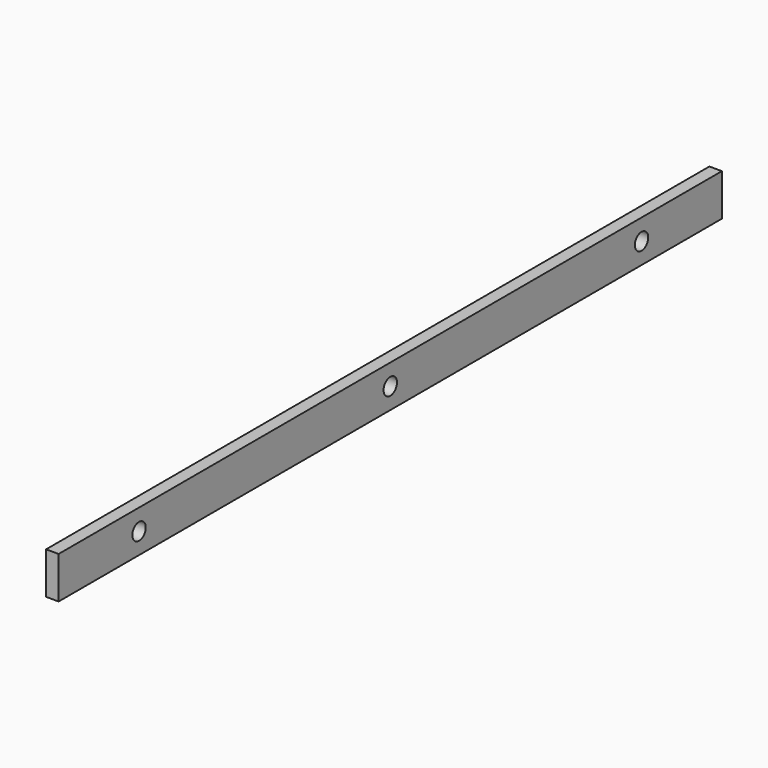
from build123d import *

# Parameters (mm, degrees)
F0_W     = 19.05
F0_H     = 63.5
F1_DEPTH = 1257.3
F2_R     = 12.7
F3_DEPTH = 19.051


with BuildPart() as f1:
    # F0 (on Front) → F1 (new body)
    with BuildSketch(Plane.XZ):
        with Locations((9.525, -31.75)):
            Rectangle(F0_W, F0_H)
    extrude(amount=F1_DEPTH)

    # F2 (on face) → F3 (cut, through all)
    with BuildSketch(Plane.YZ.offset(19.05)):
        with Locations((-1104.9, -31.75)):
            Circle(F2_R)
        with Locations((-628.65, -31.75)):
            Circle(F2_R)
        with Locations((-152.4, -31.75)):
            Circle(F2_R)
    extrude(amount=-F3_DEPTH, mode=Mode.SUBTRACT)


solid = f1.part
